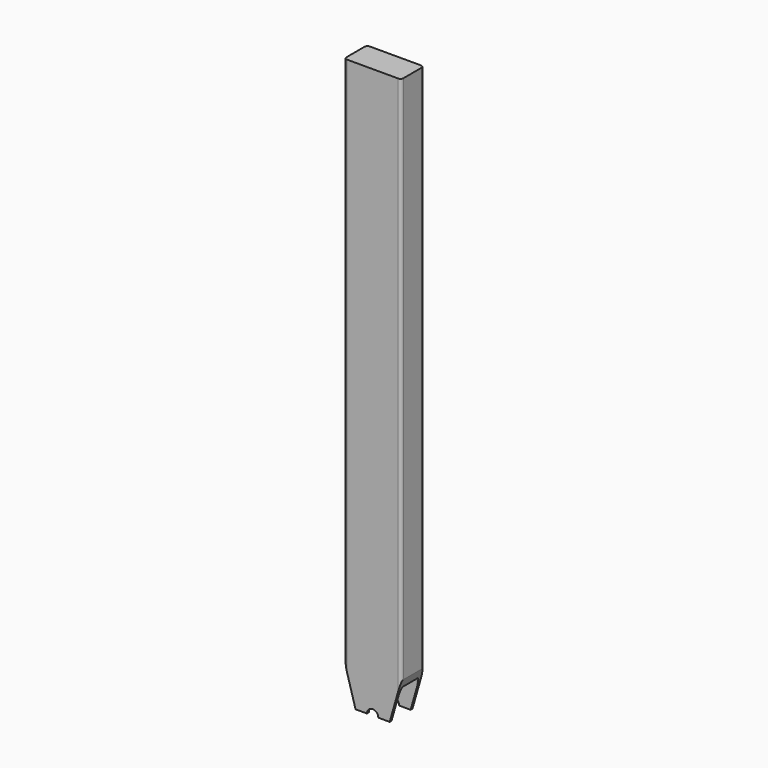
from build123d import *

# Parameters (mm, degrees)
F1_DEPTH = 50
F2_T     = -4
F3_R     = 5
F5_D     = 20
F6_W     = 4
F6_H     = 60
F7_DEPTH = 42
F9_D     = 40
F9_DEPTH = 4
F9_TIP   = 12.0172123806


with BuildPart() as f1:
    # F0 (on Front) → F1 (new body)
    with BuildSketch(Plane.XZ):
        Polygon((-50, -430), (-30, -500), (30, -500), (50, -430), (50, 500), (-50, 500), align=None)
    extrude(amount=F1_DEPTH)

    # F2
    f2_openings = [f1.faces().sort_by_distance(p)[0] for p in [
        (0, -25, -500),
        (-40, -25, -465),
        (40, -25, -465),
    ]]
    offset(amount=F2_T, openings=f2_openings)

    # F3
    f3_edges = [f1.edges().sort_by_distance(p)[0] for p in [
        (50, -50, 35),
        (50, 0, 35),
        (-50, 0, 35),
        (-50, -50, 35),
        (-46, -4, 26),
        (46, -4, 26),
        (46, -46, 26),
        (-46, -46, 26),
    ]]
    fillet(f3_edges, radius=F3_R)

    # F5 (through all)
    with Locations(Plane(origin=(0, 0, 0), x_dir=(-1, 0, 0), z_dir=(0, 1, 0))):
        with Locations((0, -500)):
            Hole(F5_D / 2)

    # F6 (on face) → F7 (join)
    with BuildSketch(Plane.XZ.offset(4)):
        with Locations((0, -450)):
            Rectangle(F6_W, F6_H)
    extrude(amount=F7_DEPTH)

    # F9 (one way)
    with BuildSketch(Plane(origin=(-2, 0, 0), x_dir=(0, -1, 0), z_dir=(-1, 0, 0))):
        with Locations((25, -480), (25, -420)):
            Circle(F9_D / 2)
    extrude(amount=-F9_DEPTH, mode=Mode.SUBTRACT)
    with Locations(Plane(origin=(-2, 0, 0), x_dir=(0, -1, 0), z_dir=(-1, 0, 0))):
        with Locations((25, -480), (25, -420)):
            with Locations((0, 0, -(F9_DEPTH + F9_TIP / 2))):  # 118° drill point
                Cone(0, F9_D / 2, F9_TIP, mode=Mode.SUBTRACT)


solid = f1.part
